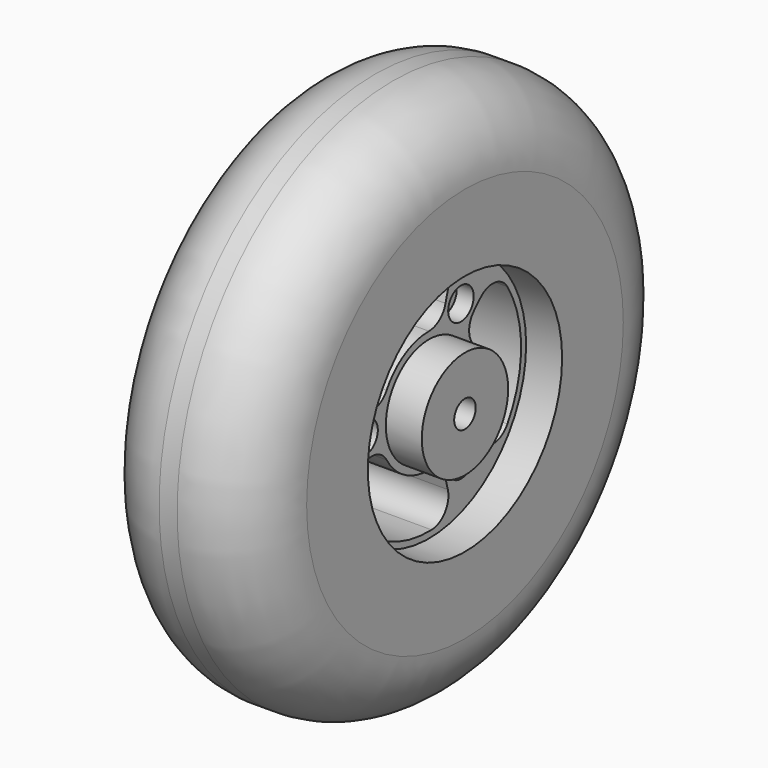
from build123d import *

# Parameters (mm, degrees)
F2_R           = 42.8625
F2_R_2         = 19.05
F3_DEPTH       = 12.7
F4_R           = 42.8625
F4_R_2         = 20.193
F5_DEPTH       = 12.7
F7_DEPTH       = 44.451
F9_D           = 6.3
F9_CBORE_D     = 11.25
F9_CBORE_DEPTH = 6


with BuildPart() as f1:
    # F0 (on Front) → F1 (revolve)
    with BuildSketch(Plane.XZ):
        with BuildLine():
            Line((-28.575, 69.85), (-28.575, 4.7625))
            Line((-28.575, 4.7625), (28.575, 4.7625))
            Line((28.575, 4.7625), (28.575, 69.85))
            ThreePointArc((28.575, 69.85), (21.1355122421, 87.8105122421), (3.175, 95.25))
            Line((3.175, 95.25), (-3.175, 95.25))
            ThreePointArc((-3.175, 95.25), (-21.1355122421, 87.8105122421), (-28.575, 69.85))
        make_face()
    revolve(axis=Axis((19.5088337422, 0, 0), (1, 0, 0)))

    # F2 (on face) → F3 (cut)
    with BuildSketch(Plane.YZ.offset(28.575)):
        Circle(F2_R)
        Circle(F2_R_2, mode=Mode.SUBTRACT)
    extrude(amount=-F3_DEPTH, mode=Mode.SUBTRACT)

    # F4 (on face) → F5 (cut)
    with BuildSketch(Plane(origin=(-28.575, 0, 0), x_dir=(0, -1, 0), z_dir=(-1, 0, 0))):
        Circle(F4_R)
        Circle(F4_R_2, mode=Mode.SUBTRACT)
    extrude(amount=-F5_DEPTH, mode=Mode.SUBTRACT)

    # F6 (on face) → F7 (cut, through all)
    with BuildSketch(Plane(origin=(-15.875, 0, 0), x_dir=(0, -1, 0), z_dir=(-1, 0, 0))):
        with BuildLine():
            ThreePointArc((-18.7203690505, -10.755272317), (-21.59, 0), (-18.7203690505, 10.755272317))
            ThreePointArc((-18.7203690505, 10.755272317), (-17.7738085484, 15.553880974), (-19.9394044545, 19.9394044545))
            Line((-19.9394044545, 19.9394044545), (-22.7184506514, 22.7184506514))
            ThreePointArc((-22.7184506514, 22.7184506514), (-28.9918287657, 24.8987035276), (-34.5927437834, 21.3295962815))
            ThreePointArc((-34.5927437834, 21.3295962815), (-40.64, 0), (-34.5927437834, -21.3295962815))
            ThreePointArc((-34.5927437834, -21.3295962815), (-28.9918287657, -24.8987035276), (-22.7184506514, -22.7184506514))
            Line((-22.7184506514, -22.7184506514), (-19.9394044545, -19.9394044545))
            ThreePointArc((-19.9394044545, -19.9394044545), (-17.7738085484, -15.553880974), (-18.7203690505, -10.755272317))
        make_face()
        with BuildLine():
            ThreePointArc((-8.315530073, -31.0339807244), (-7.0669953933, -37.5570119771), (-1.1756003406, -40.6229930438))
            ThreePointArc((-1.1756003406, -40.6229930438), (20.32, -35.1952724098), (35.768344124, -19.2933967623))
            ThreePointArc((35.768344124, -19.2933967623), (36.058824159, -12.6583084495), (31.0339807244, -8.315530073))
            Line((31.0339807244, -8.315530073), (27.2377330212, -7.2983285667))
            ThreePointArc((27.2377330212, -7.2983285667), (22.3569603251, -7.615629238), (18.6745235764, -10.8346790074))
            ThreePointArc((18.6745235764, -10.8346790074), (10.795, -18.6974884677), (0.0458454741, -21.5899513245))
            ThreePointArc((0.0458454741, -21.5899513245), (-4.5831517767, -23.1695102119), (-7.2983285667, -27.2377330212))
            Line((-7.2983285667, -27.2377330212), (-8.315530073, -31.0339807244))
        make_face()
        with BuildLine():
            ThreePointArc((31.0339807244, 8.315530073), (36.058824159, 12.6583084495), (35.768344124, 19.2933967623))
            ThreePointArc((35.768344124, 19.2933967623), (20.32, 35.1952724098), (-1.1756003406, 40.6229930438))
            ThreePointArc((-1.1756003406, 40.6229930438), (-7.0669953933, 37.5570119771), (-8.315530073, 31.0339807244))
            Line((-8.315530073, 31.0339807244), (-7.2983285667, 27.2377330212))
            ThreePointArc((-7.2983285667, 27.2377330212), (-4.5831517767, 23.1695102119), (0.0458454741, 21.5899513245))
            ThreePointArc((0.0458454741, 21.5899513245), (10.795, 18.6974884677), (18.6745235764, 10.8346790074))
            ThreePointArc((18.6745235764, 10.8346790074), (22.3569603251, 7.615629238), (27.2377330212, 7.2983285667))
            Line((27.2377330212, 7.2983285667), (31.0339807244, 8.315530073))
        make_face()
    extrude(amount=-F7_DEPTH, mode=Mode.SUBTRACT)

    # F9 (through all)
    with Locations(Plane.YZ.offset(15.875)):
        with Locations((14.097, -24.4167202343), (14.097, 24.4167202343), (-28.194, 0)):
            CounterBoreHole(F9_D / 2, F9_CBORE_D / 2, F9_CBORE_DEPTH)


solid = f1.part
